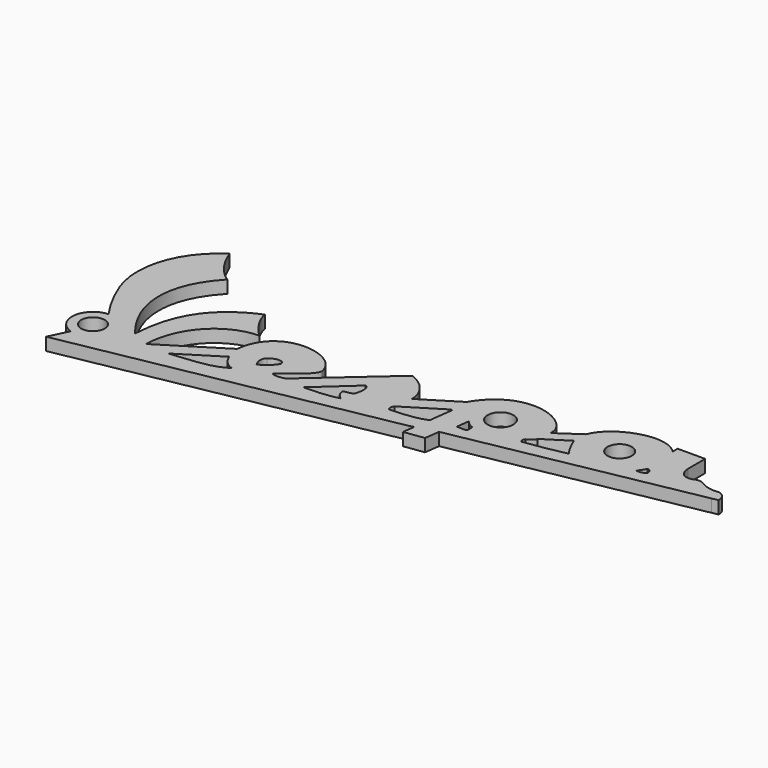
from build123d import *

# Parameters (mm, degrees)
F1_R     = 1.3972480004
F1_R_2   = 1.5294915195
F1_R_3   = 1.442504715
F2_DEPTH = 1.5


with BuildPart() as f2:
    # F1 (on Top) → F2 (new body)
    with BuildSketch(Plane.XY):
        with BuildLine():
            add(Edge.make_bspline(
                [(-26.1054903256, 7.1142406296), (-25.4090670496, 5.4339133203), (-24.5978186946, 3.9891681789), (-23.0173754613, 2.9618802636)],
                knots=[0, 0, 0, 0, 5.1747995154, 5.1747995154, 5.1747995154, 5.1747995154], degree=3))
            ThreePointArc((-26.1054903256, 7.1142406296), (-30.0554466923, 2.0152084552), (-29.894976681, -4.4327783461))
            ThreePointArc((-29.894976681, -4.4327783461), (-28.7377724369, -6.9710429922), (-27.2808163702, -9.3499478024))
            ThreePointArc((-27.2808163702, -9.3499478024), (-29.6060979779, -11.5385318697), (-27.860770002, -14.2126046121))
            Line((-27.860770002, -14.2126046121), (-28.9670806378, -16.5042486042))
            Line((-28.9670806378, -16.5042486042), (8.4894374013, -9.4712730497))
            Line((8.4894374013, -9.4712730497), (9.0087540448, -9.3211857602))
            Line((9.0087540448, -9.3211857602), (8.811198175, -10.7633406296))
            Line((8.811198175, -10.7633406296), (11.1721763387, -10.4407258332))
            Line((11.1721763387, -10.4407258332), (11.4159082867, -8.6614862898))
            Line((11.4159082867, -8.6614862898), (39.4861476369, -3.3263688323))
            Line((39.4861476369, -3.3263688323), (40.2155368864, -3.187738831))
            add(Edge.make_bspline(
                [(39.2938219011, -1.9037646707), (39.6001609502, -1.9828208259), (39.915373438, -2.2979721664), (40.0959568244, -2.5193369977), (40.2352780773, -2.8521330005), (40.2155368864, -3.187738831)],
                knots=[0, 0, 0, 0, 0.3915344678, 0.6235767189, 1, 1, 1, 1], degree=3))
            add(Edge.make_bspline(
                [(35.8328223228, -1.3700232375), (37.0021760464, -0.8172095986), (37.1997319162, -2.2297312971), (39.2938219011, -1.9037646707)],
                knots=[0, 0, 0, 0, 3.5019134767, 3.5019134767, 3.5019134767, 3.5019134767], degree=3))
            add(Edge.make_bspline(
                [(34.0719111264, 0), (34.1383591294, -1.0543882381), (34.6865691245, -1.7687202198), (35.8328223228, -1.3700232375)],
                knots=[0, 0, 0, 0, 2.2310920898, 2.2310920898, 2.2310920898, 2.2310920898], degree=3))
            Line((34.0719111264, 0), (34.0719111264, 2.5172710884))
            Line((34.0719111264, 2.5172710884), (30.8080650866, 2.5172710884))
            Line((30.8080650866, 2.5172710884), (30.8080650866, 1.7700229073))
            add(Edge.make_bspline(
                [(22.3663784564, -0.52659621), (23.4321746975, 2.3016186897), (28.5820085555, 4.1123665869), (30.8080650866, 1.7700229073)],
                knots=[0, 0, 0, 0, 8.7485160189, 8.7485160189, 8.7485160189, 8.7485160189], degree=3))
            Line((22.3663784564, -0.52659621), (19.6433216333, -2.3802395293))
            add(Edge.make_bspline(
                [(9.6558404355, -2.3802395293), (13.049820438, 3.3684996888), (19.866829738, 0.4628890601), (19.6433216333, -2.3802395293)],
                knots=[0, 0, 0, 0, 9.9874811978, 9.9874811978, 9.9874811978, 9.9874811978], degree=3))
            Line((9.6558404355, -2.3802395293), (5.3056373992, -5.0789765234))
            add(Edge.make_bspline(
                [(4.507670179, -2.9044619296), (5.08468505, -3.6536043044), (5.3222494, -4.2649703252), (5.3056373992, -5.0789765234)],
                knots=[0, 0, 0, 0, 2.3163042553, 2.3163042553, 2.3163042553, 2.3163042553], degree=3))
            add(Edge.make_bspline(
                [(2.6138599496, -1.4757980825), (3.3614169806, -1.7914331984), (4.1089733131, -2.3230290972), (4.507670179, -2.9044619296)],
                knots=[0, 0, 0, 0, 2.3722557983, 2.3722557983, 2.3722557983, 2.3722557983], degree=3))
            add(Edge.make_bspline(
                [(1.8330788007, -1.9575569313), (2.1298946813, -1.7183345044), (2.3759352043, -1.3951269211), (2.6138599496, -1.4757980825)],
                knots=[0, 0, 0, 0, 0.9174479772, 0.9174479772, 0.9174479772, 0.9174479772], degree=3))
            Line((1.8330788007, -1.9575569313), (-6.3515924849, -9.1688968241))
            add(Edge.make_bspline(
                [(-7.9320361838, -9.1688968241), (-7.5369253755, -9.4454744831), (-6.7862146534, -9.3071861193), (-6.3515924849, -9.1688968241)],
                knots=[0, 0, 0, 0, 1.5804436989, 1.5804436989, 1.5804436989, 1.5804436989], degree=3))
            add(Edge.make_bspline(
                [(-4.672370851, -5.9487428516), (-4.7118822113, -6.8772537634), (-6.7269476131, -8.121852763), (-7.9320361838, -9.1688968241)],
                knots=[0, 0, 0, 0, 4.5820093505, 4.5820093505, 4.5820093505, 4.5820093505], degree=3))
            add(Edge.make_bspline(
                [(-13.6035817684, -7.3510958755), (-12.9499454051, -1.2666780967), (-5.1662595943, -2.4520107545), (-4.672370851, -5.9487428516)],
                knots=[0, 0, 0, 0, 9.0406372814, 9.0406372814, 9.0406372814, 9.0406372814], degree=3))
            Line((-13.6035817684, -7.3510958755), (-20.8216141909, -11.8613261729))
            add(Edge.make_bspline(
                [(-13.6693427339, -3.9826510474), (-17.6924951375, -4.0944050997), (-20.7098610699, -7.6146642677), (-20.8216141909, -11.8613261729)],
                knots=[0, 0, 0, 0, 10.640888531, 10.640888531, 10.640888531, 10.640888531], degree=3))
            add(Edge.make_bspline(
                [(-15.8954709768, -0.3605082165), (-15.6809203327, -1.7475655768), (-14.5074995235, -3.1444937922), (-13.6693427339, -3.9826510474)],
                knots=[0, 0, 0, 0, 4.2515368564, 4.2515368564, 4.2515368564, 4.2515368564], degree=3))
            add(Edge.make_bspline(
                [(-22.9284465313, -10.8309490606), (-22.651867941, -6.3661946915), (-21.0714247078, -2.5336185936), (-15.8954709768, -0.3605082165)],
                knots=[0, 0, 0, 0, 12.6132024728, 12.6132024728, 12.6132024728, 12.6132024728], degree=3))
            add(Edge.make_bspline(
                [(-23.0173754613, 2.9618802636), (-26.9122216851, -1.1329171248), (-26.8004667014, -6.1618587933), (-22.9284465313, -10.8309490606)],
                knots=[0, 0, 0, 0, 13.7931160047, 13.7931160047, 13.7931160047, 13.7931160047], degree=3))
        make_face()
        with Locations((-27.1362410188, -11.8331038639)):
            Circle(F1_R, mode=Mode.SUBTRACT)
        with BuildLine():
            add(Edge.make_bspline(
                [(-18.0239586053, -12.0610070405), (-15.7098434865, -11.833098717), (-13.0850886926, -11.7500368506), (-11.6267660633, -10.6596024707)],
                knots=[0, 0, 0, 0, 6.548893585, 6.548893585, 6.548893585, 6.548893585], degree=3))
            Line((-18.0239586053, -12.0610070405), (-13.1813511252, -9.0350750834))
            add(Edge.make_bspline(
                [(-13.1813511252, -9.0350750834), (-13.0099208919, -9.5700199706), (-12.5283421949, -10.3535382077), (-11.6267660633, -10.6596024707)],
                knots=[0, 0, 0, 0, 2.2485159432, 2.2485159432, 2.2485159432, 2.2485159432], degree=3))
        make_face(mode=Mode.SUBTRACT)
        with BuildLine():
            add(Edge.make_bspline(
                [(-10.2434353903, -8.6552528664), (-9.6310134977, -8.4181865677), (-8.8605470955, -7.7662533149), (-8.5444590077, -7.1143200621)],
                knots=[0, 0, 0, 0, 2.2936858233, 2.2936858233, 2.2936858233, 2.2936858233], degree=3))
            add(Edge.make_bspline(
                [(-10.2434353903, -8.6552528664), (-10.6978127733, -7.9242978245), (-10.5570839541, -7.3388779422), (-10.2434353903, -7.094564382)],
                knots=[0, 0, 0, 0, 1.5606884845, 1.5606884845, 1.5606884845, 1.5606884845], degree=3))
            add(Edge.make_bspline(
                [(-10.2434353903, -7.094564382), (-9.5030108838, -6.5178177678), (-8.7025025859, -6.5018981695), (-8.5444590077, -7.1143200621)],
                knots=[0, 0, 0, 0, 1.6990912382, 1.6990912382, 1.6990912382, 1.6990912382], degree=3))
        make_face(mode=Mode.SUBTRACT)
        with BuildLine():
            add(Edge.make_bspline(
                [(-3.997862339, -9.5327971503), (-2.6524853893, -9.5503060147), (-1.1075350922, -9.4340192154), (0.1217808021, -9.1183846816)],
                knots=[0, 0, 0, 0, 4.1404344343, 4.1404344343, 4.1404344343, 4.1404344343], degree=3))
            Line((-3.997862339, -9.5327971503), (0.2652941843, -5.6674958445))
            add(Edge.make_bspline(
                [(0.2652941843, -5.6674958445), (0.8062553534, -5.6755845435), (0.7420006257, -6.8266401634), (0.5703142378, -7.2411866859)],
                knots=[0, 0, 0, 0, 1.602978508, 1.602978508, 1.602978508, 1.602978508], degree=3))
            add(Edge.make_bspline(
                [(-0.659000827, -7.9056816176), (-0.2732332734, -7.6783915482), (0.5924900576, -7.8399950273), (0.5703142378, -7.2411866859)],
                knots=[0, 0, 0, 0, 1.3974151291, 1.3974151291, 1.3974151291, 1.3974151291], degree=3))
            add(Edge.make_bspline(
                [(0.1217808021, -9.1183846816), (-0.4762648605, -8.7196873501), (-0.5925513105, -8.3043780178), (-0.659000827, -7.9056816176)],
                knots=[0, 0, 0, 0, 1.4423136531, 1.4423136531, 1.4423136531, 1.4423136531], degree=3))
        make_face(mode=Mode.SUBTRACT)
        with BuildLine():
            add(Edge.make_bspline(
                [(4.9881967716, -7.2493851185), (4.7906418331, -7.5654741377), (4.7906418331, -7.8618070111), (4.9881967716, -8.0396067351)],
                knots=[0, 0, 0, 0, 0.7902216166, 0.7902216166, 0.7902216166, 0.7902216166], degree=3))
            Line((4.9881967716, -7.2493851185), (9.2553952709, -4.6021416783))
            add(Edge.make_bspline(
                [(9.2553952709, -4.6021416783), (9.3900868669, -4.5460000013), (9.5247784629, -4.4898583243), (9.659470059, -4.4337166473)],
                knots=[0, 0, 0, 0, 0.4377709737, 0.4377709737, 0.4377709737, 0.4377709737], degree=3))
            Line((9.659470059, -4.4337166473), (9.2835752293, -7.3821432889))
            add(Edge.make_bspline(
                [(9.0578403324, -7.4469405226), (9.133085298, -7.4253414447), (9.2083302637, -7.4037423668), (9.2835752293, -7.3821432889)],
                knots=[0, 0, 0, 0, 0.2348508574, 0.2348508574, 0.2348508574, 0.2348508574], degree=3))
            add(Edge.make_bspline(
                [(4.9881967716, -8.0396067351), (6.3513298519, -8.0396067351), (8.0107953399, -7.8815622255), (9.0578403324, -7.4469405226)],
                knots=[0, 0, 0, 0, 4.1125724251, 4.1125724251, 4.1125724251, 4.1125724251], degree=3))
        make_face(mode=Mode.SUBTRACT)
        with BuildLine():
            add(Edge.make_bspline(
                [(12.0548270643, -6.8122986704), (12.4023873359, -6.8496330641), (12.834308669, -6.8454798311), (13.2282469422, -6.8038739264)],
                knots=[0, 0, 0, 0, 1.1734501209, 1.1734501209, 1.1734501209, 1.1734501209], degree=3))
            Line((12.0548270643, -6.8122986704), (12.2528898782, -5.2587426453))
            add(Edge.make_bspline(
                [(12.2528898782, -5.2587426453), (12.4366115779, -5.5469754152), (12.7890128642, -5.8523900807), (13.2282469422, -6.0020806268)],
                knots=[0, 0, 0, 0, 1.2263248986, 1.2263248986, 1.2263248986, 1.2263248986], degree=3))
            add(Edge.make_bspline(
                [(13.2282469422, -6.0020806268), (13.2745364681, -6.2308222987), (13.2620772347, -6.5256915987), (13.2282469422, -6.8038739264)],
                knots=[0, 0, 0, 0, 0.8017932996, 0.8017932996, 0.8017932996, 0.8017932996], degree=3))
        make_face(mode=Mode.SUBTRACT)
        with Locations((14.3629331142, -3.2250012737)):
            Circle(F1_R_2, mode=Mode.SUBTRACT)
        with BuildLine():
            add(Edge.make_bspline(
                [(19.432829693, -4.0608244017), (19.3490143865, -4.5078415424), (18.8181810081, -4.7173807397), (18.5946729034, -4.8151658848)],
                knots=[0, 0, 0, 0, 1.1276248831, 1.1276248831, 1.1276248831, 1.1276248831], degree=3))
            Line((19.432829693, -4.0608244017), (22.3105028272, -2.2448180243))
            add(Edge.make_bspline(
                [(23.5397983342, -4.5776879415), (23.0103097856, -3.8096164353), (22.549321875, -2.9714596458), (22.3105028272, -2.2448180243)],
                knots=[0, 0, 0, 0, 2.636939418, 2.636939418, 2.636939418, 2.636939418], degree=3))
            add(Edge.make_bspline(
                [(18.5946729034, -5.4437834769), (20.1885141432, -5.2344831638), (21.9626128674, -4.9271588214), (23.5397983342, -4.5776879415)],
                knots=[0, 0, 0, 0, 5.0203970962, 5.0203970962, 5.0203970962, 5.0203970962], degree=3))
            add(Edge.make_bspline(
                [(18.5946729034, -4.8151658848), (18.4410121292, -5.0247046165), (18.4689499438, -5.2342442796), (18.5946729034, -5.4437834769)],
                knots=[0, 0, 0, 0, 0.6286175922, 0.6286175922, 0.6286175922, 0.6286175922], degree=3))
        make_face(mode=Mode.SUBTRACT)
        with BuildLine():
            add(Edge.make_bspline(
                [(31.1438944191, -2.3654149845), (31.0109946877, -2.6810497511), (30.7784210891, -3.1129715499), (30.4793994874, -3.3123199828)],
                knots=[0, 0, 0, 0, 1.1567984224, 1.1567984224, 1.1567984224, 1.1567984224], degree=3))
            add(Edge.make_bspline(
                [(31.1438944191, -2.3654149845), (31.492754817, -2.3820272181), (31.6588766873, -2.6644375175), (31.675491482, -3.0797468498)],
                knots=[0, 0, 0, 0, 0.8904299249, 0.8904299249, 0.8904299249, 0.8904299249], degree=3))
            add(Edge.make_bspline(
                [(31.675491482, -3.0797468498), (31.2269553542, -3.41199385), (30.8116469532, -3.3455446828), (30.4793994874, -3.3123199828)],
                knots=[0, 0, 0, 0, 1.218493464, 1.218493464, 1.218493464, 1.218493464], degree=3))
        make_face(mode=Mode.SUBTRACT)
        with Locations((26.9373841584, -1.2534282869)):
            Circle(F1_R_3, mode=Mode.SUBTRACT)
    extrude(amount=F2_DEPTH)


solid = f2.part
